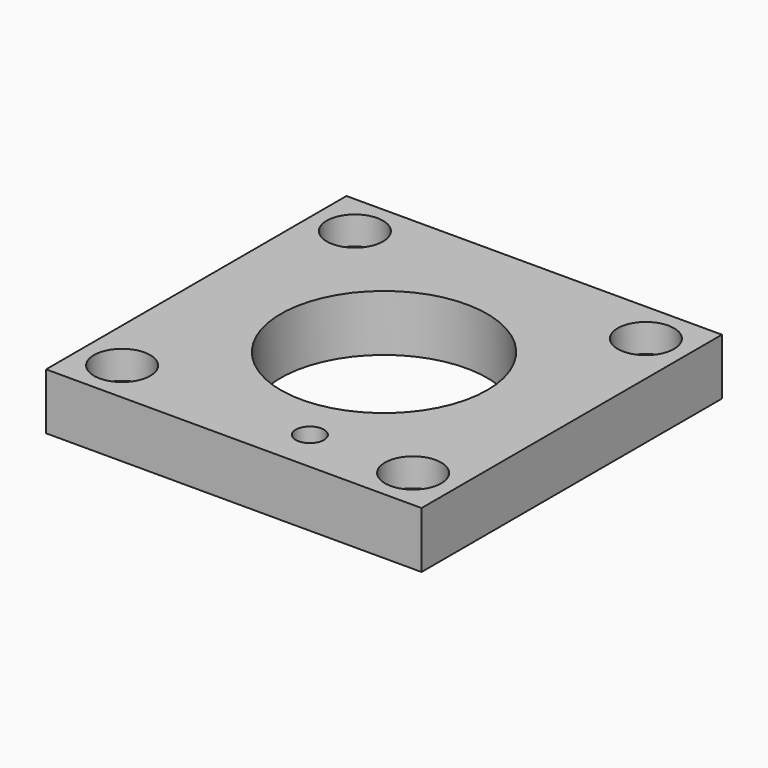
from build123d import *

# Parameters (mm, degrees)
F0_R           = 11
F1_DEPTH       = 6
F2_D           = 3
F2_CBORE_D     = 6
F2_CBORE_DEPTH = 3
F4_D           = 3
F4_CBORE_D     = 6
F4_CBORE_DEPTH = 3


with BuildPart() as f1:
    # F0 (on Top) → F1 (new body)
    with BuildSketch(Plane.XY):
        Polygon((0, -20), (20, -20), (20, 20), (-20, 20), (-20, -20), align=None)
        Polygon((15.5, -15.5), (0, -15.5), (-15.5, -15.5), (-15.5, 15.5), (15.5, 15.5), align=None, mode=Mode.SUBTRACT)
        Polygon((-15.5, -15.5), (0, -15.5), (15.5, -15.5), (15.5, 15.5), (-15.5, 15.5), align=None)
        Circle(F0_R, mode=Mode.SUBTRACT)
        Polygon((-15.5, -15.5), (0, -15.5), (15.5, -15.5), (15.5, 15.5), (-15.5, 15.5), align=None)
        Circle(F0_R, mode=Mode.SUBTRACT)
    extrude(amount=-F1_DEPTH)

    # F2 (through all)
    with Locations(Plane.XY):
        with Locations((15.5, 15.5), (15.5, -15.5), (-15.5, -15.5), (-15.5, 15.5)):
            CounterBoreHole(F2_D / 2, F2_CBORE_D / 2, F2_CBORE_DEPTH)

    # F4 (through all)
    with Locations(Plane(origin=(0, 0, -6), x_dir=(1, 0, 0), z_dir=(0, 0, -1))):
        with Locations((4.5, 15.5)):
            CounterBoreHole(F4_D / 2, F4_CBORE_D / 2, F4_CBORE_DEPTH)


solid = f1.part
